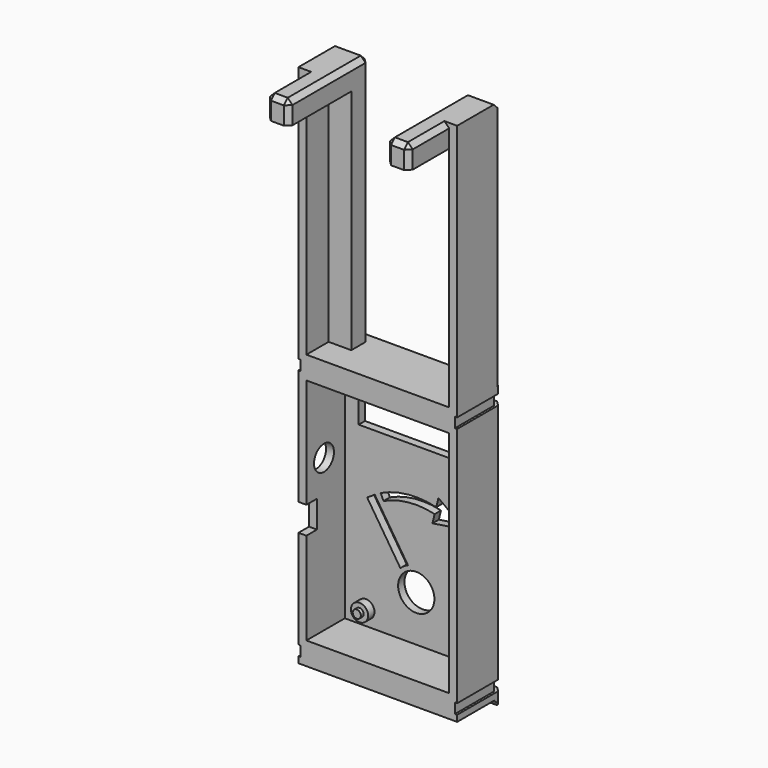
from build123d import *

# Parameters (mm, degrees)
PAD017_DEPTH    = 4.5
SKETCH028_W     = 50.8
SKETCH028_H     = 15
PAD024_DEPTH    = 10
PAD021_DEPTH    = 100.98
SKETCH025_R     = 3.8
PAD022_DEPTH    = 3.5
SKETCH026_R     = 1.8
PAD023_DEPTH    = 1.5
SKETCH042_R     = 8
POCKET002_DEPTH = 5
PAD031_DEPTH    = 4.5
SKETCH034_W     = 70
SKETCH034_H     = 24.7
PAD030_DEPTH    = 10
SKETCH037_W     = 10
SKETCH037_H     = 10
PAD033_DEPTH    = 110.5
SKETCH038_W     = 10
SKETCH038_H     = 10
PAD034_DEPTH    = 34.5
SKETCH039_W     = 10
SKETCH039_H     = 10
PAD035_DEPTH    = 34.5
SKETCH040_W     = 22.25
SKETCH040_H     = 110.5
PAD036_DEPTH    = 3.5
PAD016_DEPTH    = 70
CHAMFER010_SIZE = 2.125
CHAMFER012_SIZE = 2.125
SKETCH044_R     = 5.5
SKETCH044_W     = 7
SKETCH044_H     = 12
POCKET004_DEPTH = 5


with BuildPart() as band2:
    # Sketch020 → Pad017 (new body)
    with BuildSketch(Plane.XY.offset(27.45)):
        Polygon((-35, 24.7), (-35, 0), (-34, 0), (-34, 23.7), (-20, 23.7), (-20, 22.7), (20, 22.7), (20, 23.7), (34, 23.7), (34, 0), (35, 0), (35, 24.7), align=None)
    extrude(amount=PAD017_DEPTH)


with BuildPart() as body012:
    # Sketch028 → Pad024 (new body)
    with BuildSketch(Plane.XZ.offset(-24.7)):
        with Locations((0, 119.38)):
            Rectangle(SKETCH028_W, SKETCH028_H)
    extrude(amount=PAD024_DEPTH)


with BuildPart() as boardbacking:
    # Sketch024 → Pad021 (new body)
    with BuildSketch(Plane.XY.offset(34.7)):
        Polygon((-35, 0), (-35, 24.7), (35, 24.7), (35, 0), (31.5, 0), (31.5, 21.2), (-31.5, 21.2), (-31.5, 0), align=None)
    extrude(amount=PAD021_DEPTH)

    # Sketch025 (on Face6 of Pad021) → Pad022 (join)
    with BuildSketch(Plane.XZ.offset(-21.2)):
        with Locations((-22.225, 129.005)):
            Circle(SKETCH025_R)
        with Locations((22.225, 129.005)):
            Circle(SKETCH025_R)
        with Locations((-22.225, 41.375)):
            Circle(SKETCH025_R)
        with Locations((22.225, 41.375)):
            Circle(SKETCH025_R)
    extrude(amount=PAD022_DEPTH)

    # Sketch026 → Pad023 (join)
    with BuildSketch(Plane.XZ.offset(-17.7)):
        with Locations((-22.225, 129.005)):
            Circle(SKETCH026_R)
        with Locations((22.225, 129.005)):
            Circle(SKETCH026_R)
        with Locations((-22.225, 41.375)):
            Circle(SKETCH026_R)
        with Locations((22.225, 41.375)):
            Circle(SKETCH026_R)
    extrude(amount=PAD023_DEPTH)

    # Boolean005: cut Body012
    add(body012.part, mode=Mode.SUBTRACT)

    # Sketch042 (on Face3 of Boolean005) → Pocket002 (cut)
    with BuildSketch(Plane(origin=(0, 24.7, 0), x_dir=(-1, 0, 0), z_dir=(0, 1, 0))):
        with Locations((0, 55)):
            Circle(SKETCH042_R)
        with BuildLine():
            Line((3.641143, 64.313543), (18.302914, 86.985827))
            Line((18.302914, 86.985827), (21.661771, 84.813713))
            Line((21.661771, 84.813713), (7, 62.141428))
            ThreePointArc((7, 62.141428), (5.430286, 63.397142), (3.641143, 64.313543))
        make_face()
        with BuildLine():
            ThreePointArc((15.712042, 88.498235), (3.658274, 91.818705), (-8.813211, 90.935043))
            Line((-9.765986, 94.819914), (-8.813211, 90.935043))
            Line((-21.351919, 86.31544), (-9.765986, 94.819914))
            Line((-7.145856, 84.136519), (-21.351919, 86.31544))
            Line((-8.098631, 88.02139), (-7.145856, 84.136519))
            ThreePointArc((14.438081, 85.782167), (3.361649, 88.833405), (-8.098631, 88.02139))
            Line((15.712042, 88.498235), (14.438081, 85.782167))
        make_face()
    extrude(amount=-POCKET002_DEPTH, mode=Mode.SUBTRACT)


with BuildPart() as body017:
    # Sketch035 → Pad031 (new body)
    with BuildSketch(Plane.XY.offset(138.43)):
        Polygon((-35, 0), (-35, 24.7), (35, 24.7), (35, 0), (34, 0), (34, 23.7), (-34, 23.7), (-34, 0), align=None)
    extrude(amount=PAD031_DEPTH)


with BuildPart() as zip003:
    # Sketch034 → Pad030 (new body)
    with BuildSketch(Plane.XY.offset(135.68)):
        with Locations((0, 12.35)):
            Rectangle(SKETCH034_W, SKETCH034_H)
    extrude(amount=PAD030_DEPTH)

    # Boolean007: cut Body017
    add(body017.part, mode=Mode.SUBTRACT)

    # Sketch037 (on Face12 of Boolean007) → Pad033 (join)
    with BuildSketch(Plane.XY.offset(145.68)):
        with Locations((-26.5, 17.25)):
            Rectangle(SKETCH037_W, SKETCH037_H)
        with Locations((26.5, 17.25)):
            Rectangle(SKETCH037_W, SKETCH037_H)
    extrude(amount=PAD033_DEPTH)

    # Sketch038 (on Face21 of Pad033) → Pad034 (join)
    with BuildSketch(Plane.XZ.offset(-12.25)):
        with Locations((-26.5, 251.18)):
            Rectangle(SKETCH038_W, SKETCH038_H)
    extrude(amount=PAD034_DEPTH)

    # Sketch039 (on Face17 of Pad034) → Pad035 (join)
    with BuildSketch(Plane.XZ.offset(-12.25)):
        with Locations((26.5, 251.18)):
            Rectangle(SKETCH039_W, SKETCH039_H)
    extrude(amount=PAD035_DEPTH)

    # Sketch040 (on Face22 of Pad035) → Pad036 (join)
    with BuildSketch(Plane(origin=(-31.5, 0, 0), x_dir=(0, -1, 0), z_dir=(-1, 0, 0))):
        with Locations((-11.125, 200.93)):
            Rectangle(SKETCH040_W, SKETCH040_H)
    pad036 = extrude(amount=PAD036_DEPTH)

    # Mirrored: Pad036 across YZ
    add(pad036.mirror(Plane.YZ))


with BuildPart() as frame:
    # Sketch019 → Pad016 (new body)
    with BuildSketch(Plane.YZ.offset(-35)):
        Polygon((0, 34.7), (0, 24.7), (20.45, 24.7), (24.7, 20.45), (24.7, 34.7), align=None)
    extrude(amount=PAD016_DEPTH)

    # Boolean004: cut Band2
    add(band2.part, mode=Mode.SUBTRACT)

    # Boolean008: union BoardBacking, Zip003
    add(boardbacking.part)
    add(zip003.part)

    # Chamfer010
    chamfer010_edges = [frame.edges().sort_by_distance(p)[0] for p in [
        (35, 24.7, 23.95),
        (34, 23.7, 29.7),
        (35, 24.7, 33.325),
        (35, 24.7, 85.19),
        (35, 24.7, 137.055),
        (34, 23.7, 140.68),
        (35, 24.7, 144.305),
        (-35, 24.7, 144.305),
        (-34, 23.7, 140.68),
        (-35, 24.7, 137.055),
        (-35, 24.7, 85.19),
        (-35, 24.7, 33.325),
        (-34, 23.7, 29.7),
        (-35, 24.7, 23.95),
    ]]
    chamfer(chamfer010_edges, length=CHAMFER010_SIZE)

    # Chamfer012
    chamfer012_edges = [frame.edges().sort_by_distance(p)[0] for p in [
        (31.5, -22.25, 251.18),
        (31.5, -11.125, 256.18),
        (26.5, -22.25, 256.18),
        (21.5, -22.25, 251.18),
        (21.5, -5, 256.18),
        (21.5, 17.25, 256.18),
        (26.5, 22.25, 256.18),
        (33.25, 22.25, 256.18),
        (21.5, 22.25, 200.93),
        (-21.5, 22.25, 200.93),
        (-26.5, 22.25, 256.18),
        (-33.25, 22.25, 256.18),
        (-21.5, 17.25, 256.18),
        (-21.5, -5, 256.18),
        (-21.5, -22.25, 251.18),
        (-31.5, -22.25, 251.18),
        (-26.5, -22.25, 256.18),
        (-31.5, -11.125, 256.18),
    ]]
    chamfer(chamfer012_edges, length=CHAMFER012_SIZE)

    # Sketch044 (on Face54 of Chamfer012) → Pocket004 (cut)
    with BuildSketch(Plane(origin=(-35, 0, 0), x_dir=(0, -1, 0), z_dir=(-1, 0, 0))):
        with Locations((-9.7, 101.7)):
            Circle(SKETCH044_R)
        with Locations((-2.34, 81.38)):
            Rectangle(SKETCH044_W, SKETCH044_H)
    extrude(amount=-POCKET004_DEPTH, mode=Mode.SUBTRACT)


solid = frame.part
